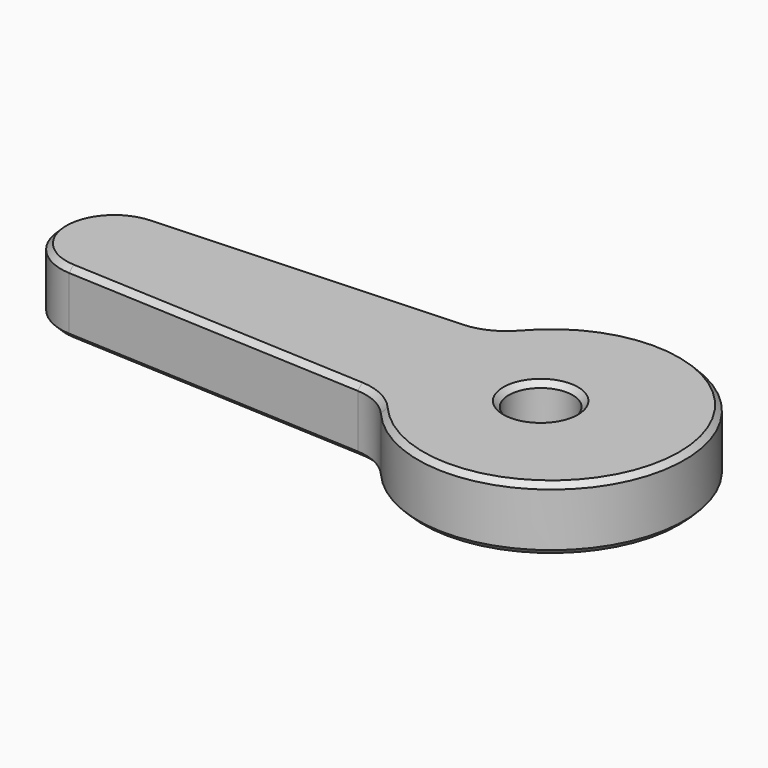
from build123d import *

# Parameters (mm, degrees)
F0_R     = 3
F1_DEPTH = 6
F2_SIZE  = 0.5


with BuildPart() as f1:
    # F0 (on Top) → F1 (new body)
    with BuildSketch(Plane.XY):
        with BuildLine():
            ThreePointArc((-12.051116, -6.383037), (-10.094701, -6.888194), (-8.497968, -8.126414))
            ThreePointArc((-8.497968, -8.126414), (13.5, 0), (-8.497968, 8.126414))
            ThreePointArc((-8.497968, 8.126414), (-10.094701, 6.888194), (-12.051116, 6.383037))
            Line((-12.051116, 6.383037), (-40.246039, 4.993943))
            ThreePointArc((-40.246039, 4.993943), (-45, 0), (-40.246039, -4.993943))
            Line((-40.246039, -4.993943), (-12.051116, -6.383037))
        make_face()
        Circle(F0_R, mode=Mode.SUBTRACT)
    extrude(amount=F1_DEPTH)

    # F2
    f2_edges = [f1.edges().sort_by_distance(p)[0] for p in [
        (-26.148577, 5.68849, 6),
        (-26.148577, -5.68849, 0),
        (-3, 0, 0),
        (-3, 0, 6),
    ]]
    chamfer(f2_edges, length=F2_SIZE)


solid = f1.part
